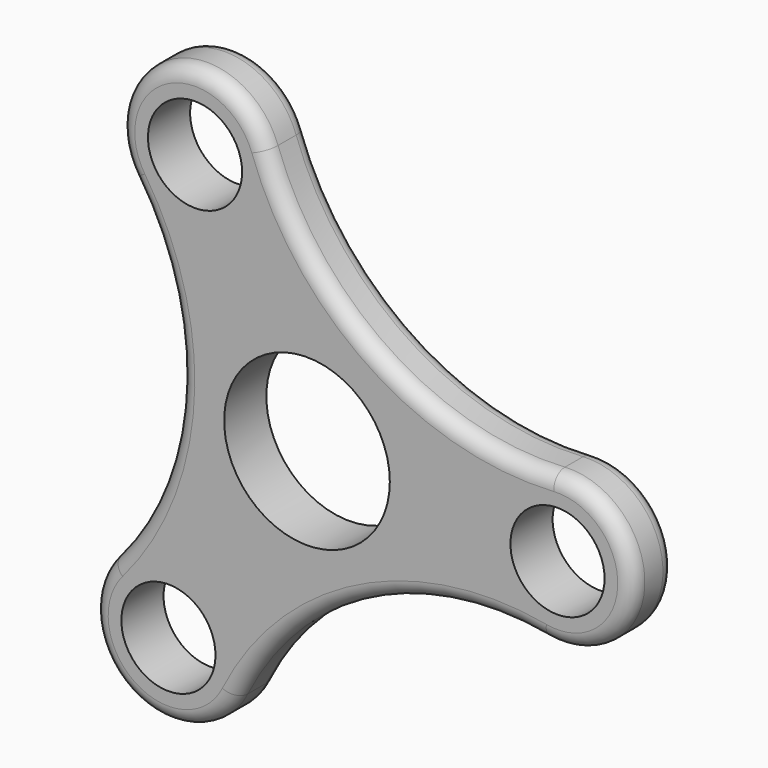
from build123d import *

# Parameters (mm, degrees)
F0_R     = 6.25
F0_R_2   = 11
F1_DEPTH = 7
F2_R     = 2


with BuildPart() as f1:
    # F0 (on Front) → F1 (new body)
    with BuildSketch(Plane.XZ):
        with BuildLine():
            ThreePointArc((-9.448443, -32.250276), (7.583595, -15.214765), (31.439673, -11.870146))
            ThreePointArc((31.439673, -11.870146), (43.248737, -2.65025), (32.65378, 7.942547))
            ThreePointArc((32.65378, 7.942547), (9.384576, 14.174969), (-5.439988, 33.162628))
            ThreePointArc((-5.439988, 33.162628), (-19.329184, 38.77963), (-23.205337, 24.307729))
            ThreePointArc((-23.205337, 24.307729), (-16.968171, 1.039797), (-25.999684, -21.292482))
            ThreePointArc((-25.999684, -21.292482), (-23.919553, -36.12938), (-9.448443, -32.250276))
        make_face()
        with Locations((-18.399214, -27.791163)):
            Circle(F0_R, mode=Mode.SUBTRACT)
        Circle(F0_R_2, mode=Mode.SUBTRACT)
        with Locations((33.26746, -2.038605)):
            Circle(F0_R, mode=Mode.SUBTRACT)
        with Locations((-14.868246, 29.829768)):
            Circle(F0_R, mode=Mode.SUBTRACT)
    extrude(amount=F1_DEPTH)

    # F2
    f2_edges = [f1.edges().sort_by_distance(p)[0] for p in [
        (-16.968171, -7, 1.039797),
        (7.583595, 0, -15.214765),
    ]]
    fillet(f2_edges, radius=F2_R)


solid = f1.part
